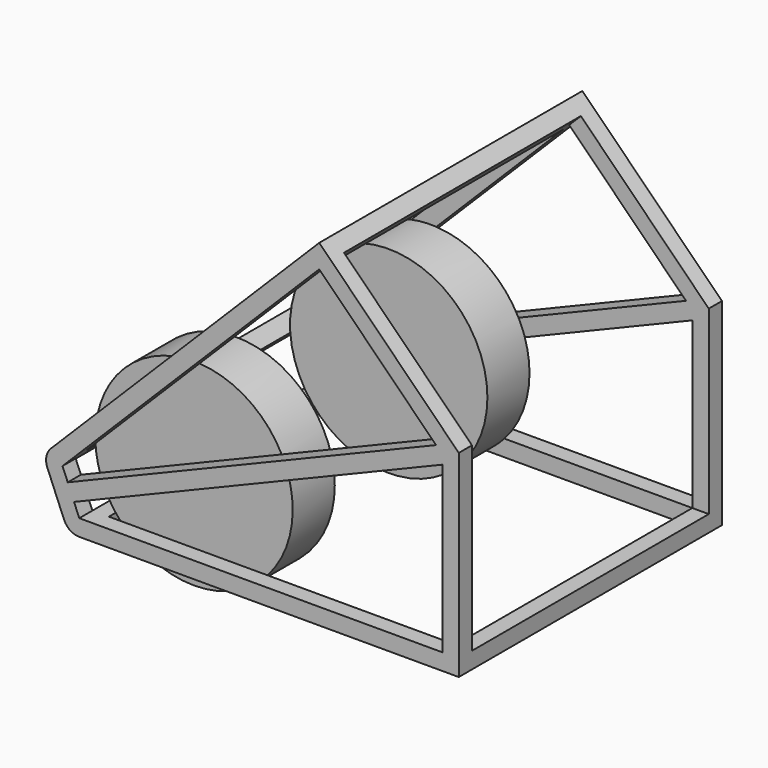
from build123d import *

# Parameters (mm, degrees)
F1_DEPTH = 6.35
F4_W     = 127
F4_H     = 147.3902405336
F4_W_2   = 114.3
F4_H_2   = 131.6580059171
F5_DEPTH = 6.35
F6_W     = 146.5334397942
F6_H     = 127
F6_W_2   = 133.8334397942
F6_H_2   = 114.3
F7_DEPTH = 6.35
F8_R     = 38.1
F9_DEPTH = 20.32


with BuildPart() as f1:
    # F0 (on Front) → F1 (new body)
    with BuildSketch(Plane.XZ):
        with BuildLine():
            Line((146.5334397942, -6.35), (146.5334397942, 69.85))
            Line((146.5334397942, 69.85), (92.6519030678, 123.7315367264))
            Line((92.6519030678, 123.7315367264), (-10.9628858813, 20.1167477774))
            ThreePointArc((-10.9628858813, 20.1167477774), (-12.7007443513, 16.8654432616), (-12.3393928522, 13.1965799213))
            Line((-12.3393928522, 13.1965799213), (-5.8666350314, -2.4300397955))
            ThreePointArc((-5.8666350314, -2.4300397955), (-3.5278709797, -5.2798320381), (0, -6.35))
            Line((0, -6.35), (146.5334397942, -6.35))
        make_face()
        Polygon((140.1834397942, 0), (0, 0), (-2.0213590126, 4.8799923427), (140.1834397942, 63.783148643), align=None, mode=Mode.SUBTRACT)
        Polygon((-4.4513988081, 10.7466273741), (-6.4727578208, 15.6266197168), (92.6519030678, 114.7512806053), (137.7533999987, 69.6497836744), align=None, mode=Mode.SUBTRACT)
    extrude(amount=F1_DEPTH)


with BuildPart() as f3_1:
    # F3: instance of F1
    add(f1.part.mirror(Plane.XZ.offset(-57.15)))


with BuildPart() as f1_1:
    add(f1.part)

    add(f3_1.part)  # F5 merges F3_1
    # F4 (on face) → F5 (join)
    with BuildSketch(Plane(origin=(-15.5398168293, 0, 15.5398168293), x_dir=(0, -1, 0), z_dir=(-0.7071067812, 0, 0.7071067812))):
        with Locations((-57.15, 79.3110773481)):
            Rectangle(F4_W, F4_H)
        with Locations((-57.15, 77.7949600399)):
            Rectangle(F4_W_2, F4_H_2, mode=Mode.SUBTRACT)
        Polygon((6.35, 153.0061976149), (-114.3, 153.0061976149), (-114.3, 143.6239629984), (0, 143.6239629984), (0, 11.9659570813), (-114.3, 11.9659570813), (-114.3, 6.4727578208), (-120.65, 6.4727578208), (-120.65, 5.6159570813), (6.35, 5.6159570813), align=None)
    extrude(amount=-F5_DEPTH)

    # F6 (on face) → F7 (join)
    with BuildSketch(Plane(origin=(0, 0, -6.35), x_dir=(1, 0, 0), z_dir=(0, 0, -1))):
        with Locations((73.2667198971, -57.15)):
            Rectangle(F6_W, F6_H)
        with Locations((73.2667198971, -57.15)):
            Rectangle(F6_W_2, F6_H_2, mode=Mode.SUBTRACT)
    extrude(amount=-F7_DEPTH)

    # F8 (on face) → F9 (join)
    with BuildSketch(Plane.XZ.offset(-114.3)):
        with Locations((39.2216469467, 25.4)):
            Circle(F8_R)
    extrude(amount=F9_DEPTH)

    # F10: F1 across plane


with BuildPart() as f1_2:
    add(f1_1.part)
    add(f1_1.part.mirror(Plane.XZ.offset(-57.15)))


solid = f1_2.part
